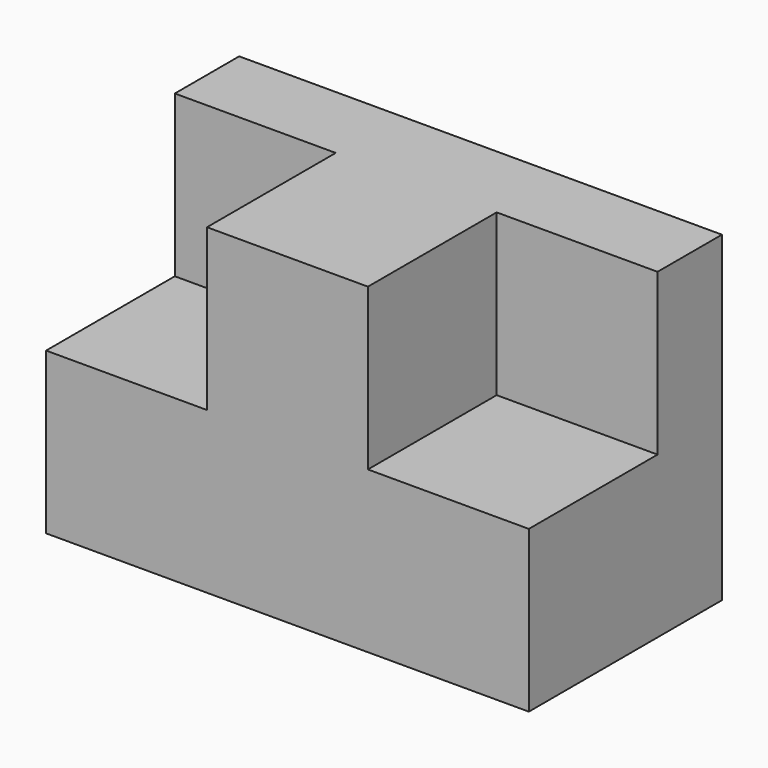
from build123d import *

# Parameters (mm, degrees)
F0_W     = 152.4
F0_H     = 76.2
F1_DEPTH = 101.6
F2_W     = 50.8
F2_H     = 50.8
F3_DEPTH = 50.8
F4_DEPTH = 50.8


with BuildPart() as f1:
    # F0 (on Top) → F1 (new body)
    with BuildSketch(Plane.XY):
        with Locations((15.3874829412, -8.4786337945)):
            Rectangle(F0_W, F0_H)
    extrude(amount=F1_DEPTH)

    # F2 (on face) → F3 (cut)
    with BuildSketch(Plane.XZ.offset(46.5786337945)):
        with Locations((-35.4125170588, 76.2)):
            Rectangle(F2_W, F2_H)
    extrude(amount=-F3_DEPTH, mode=Mode.SUBTRACT)

    # F2 (on face) → F4 (cut)
    with BuildSketch(Plane.XZ.offset(46.5786337945)):
        with Locations((66.1874829412, 76.2)):
            Rectangle(F2_W, F2_H)
    extrude(amount=-F4_DEPTH, mode=Mode.SUBTRACT)


solid = f1.part
